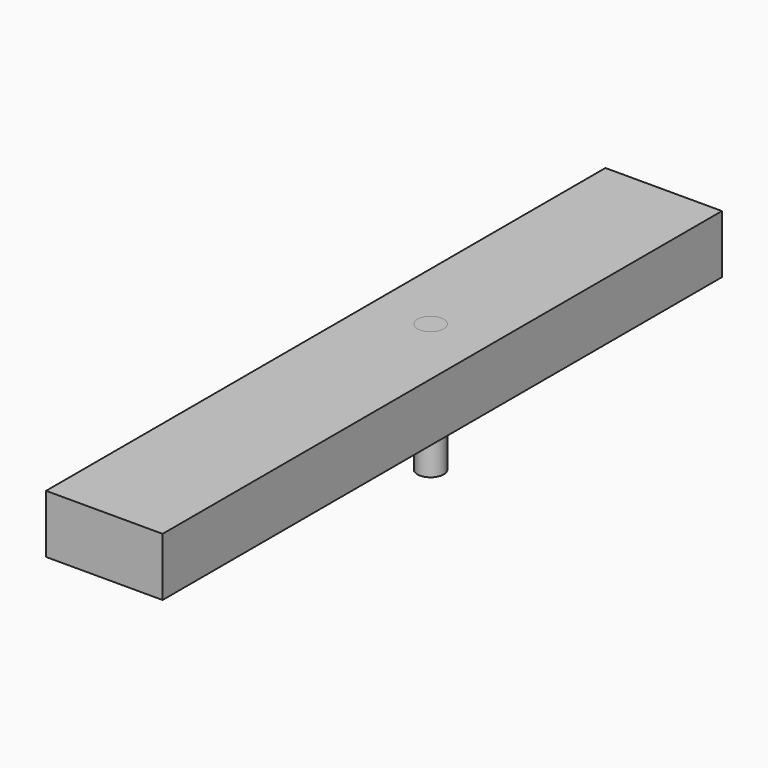
from build123d import *

# Parameters (mm, degrees)
F0_W     = 50.8
F0_H     = 25.4
F1_DEPTH = 152.4
F2_R     = 5.715
F3_DEPTH = 25.401
F4_DEPTH = 55.88


with BuildPart() as f1:
    # F0 (on Front) → F1 (new body, symmetric)
    with BuildSketch(Plane.XZ):
        Rectangle(F0_W, F0_H)
    extrude(amount=F1_DEPTH, both=True)

    # F2 (on face) → F3 (cut, through all)
    with BuildSketch(Plane.XY.offset(12.7)):
        with Locations((0, 25.4)):
            Circle(F2_R)
    extrude(amount=-F3_DEPTH, mode=Mode.SUBTRACT)


with BuildPart() as f4:
    # F2 (on face) → F4 (new body)
    with BuildSketch(Plane.XY.offset(12.7)):
        with Locations((0, 25.4)):
            Circle(F2_R)
    extrude(amount=-F4_DEPTH)


solid = Compound([f1.part, f4.part])
